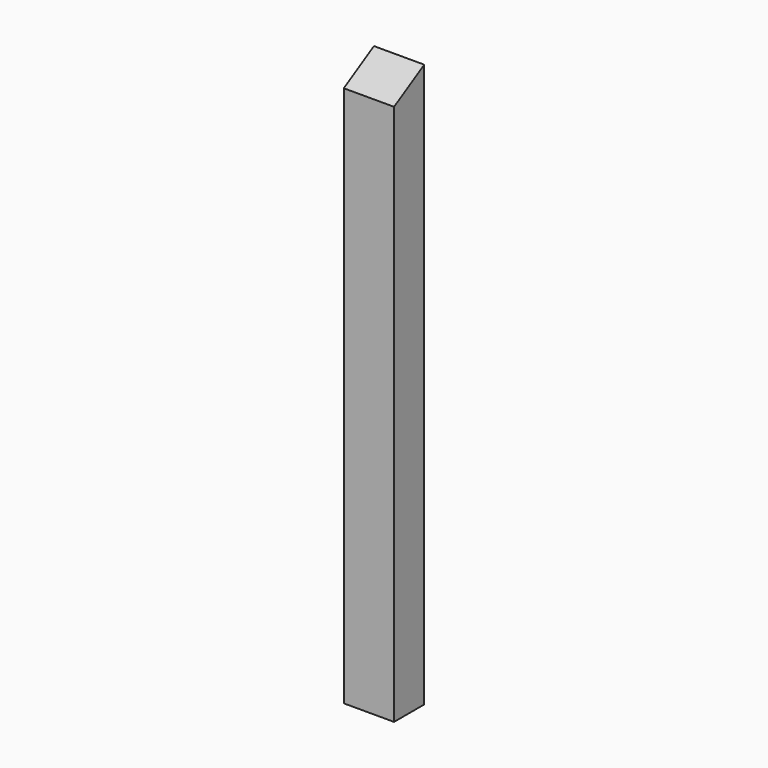
from build123d import *

# Parameters (mm, degrees)
F0_W     = 20
F0_H     = 224.019
F1_DEPTH = 15
F3_DEPTH = 20.001


with BuildPart() as f1:
    # F0 (on Front) → F1 (new body)
    with BuildSketch(Plane.XZ):
        Rectangle(F0_W, F0_H)
    extrude(amount=F1_DEPTH)

    # F2 (on face) → F3 (cut, through all)
    with BuildSketch(Plane(origin=(-10, 0, 0), x_dir=(0, -1, 0), z_dir=(-1, 0, 0))):
        Polygon((15, 112.0095), (0, 112.0095), (15, 103.349246), align=None)
    extrude(amount=-F3_DEPTH, mode=Mode.SUBTRACT)


solid = f1.part
